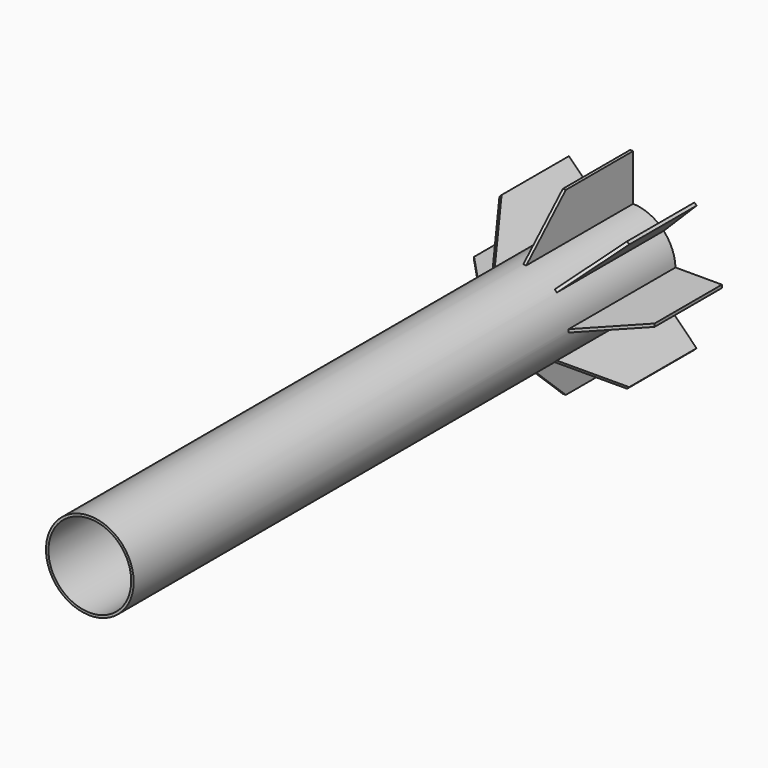
from build123d import *

# Parameters (mm, degrees)
F0_R     = 11.65
F0_R_2   = 11
F1_DEPTH = 180
F3_DEPTH = 0.4
F4_COUNT = 8


with BuildPart() as f1:
    # F0 (on Front) → F1 (new body)
    with BuildSketch(Plane.XZ):
        Circle(F0_R)
        Circle(F0_R_2, mode=Mode.SUBTRACT)
    extrude(amount=F1_DEPTH)

    # F2 (on Top) → F3 (join, symmetric)
    with BuildSketch(Plane.XY):
        Polygon((-11.318761, -35.867412), (-11.318761, 0), (-23.984207, 0), (-23.984207, -22.375958), align=None)
    extrude(amount=F3_DEPTH, both=True)

    # F4: F1 ×8 about axis
    f4_axis = Axis((0, 0, 0), (0, 1, 0))


with BuildPart() as f1_1:
    add(f1.part)
    for i in range(1, F4_COUNT):
        add(f1.part.rotate(f4_axis, i * 360 / F4_COUNT))


solid = f1_1.part
